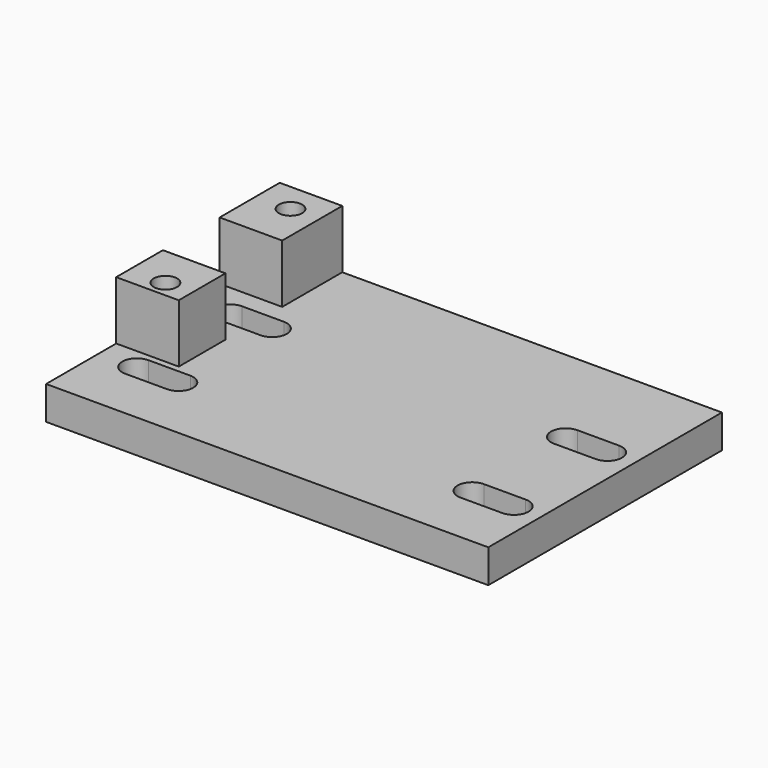
from build123d import *

# Parameters (mm, degrees)
F0_W     = 53
F0_H     = 35
F1_DEPTH = 4
F2_R     = 1.4
F3_DEPTH = 25
F4_W     = 7.5
F4_H     = 6.995946
F4_R     = 1.4
F4_H_2   = 9
F5_DEPTH = 7


with BuildPart() as f1:
    # F0 (on Top) → F1 (new body)
    with BuildSketch(Plane.XY):
        with Locations((26.5, 17.5)):
            Rectangle(F0_W, F0_H)
        with BuildLine():
            ThreePointArc((4.484879, 6.248995), (2.734879, 7.998995), (4.484879, 9.748995))
            Line((4.484879, 9.748995), (9.484879, 9.748995))
            ThreePointArc((9.484879, 9.748995), (11.234879, 7.998995), (9.484879, 6.248995))
            Line((9.484879, 6.248995), (4.484879, 6.248995))
        make_face(mode=Mode.SUBTRACT)
        with BuildLine():
            ThreePointArc((44.676833, 6.244954), (42.926833, 7.994954), (44.676833, 9.744954))
            Line((44.676833, 9.744954), (49.676833, 9.744954))
            ThreePointArc((49.676833, 9.744954), (51.426833, 7.994954), (49.676833, 6.244954))
            Line((49.676833, 6.244954), (44.676833, 6.244954))
        make_face(mode=Mode.SUBTRACT)
        with BuildLine():
            ThreePointArc((4.5, 20.25), (2.75, 22), (4.5, 23.75))
            Line((4.5, 23.75), (9.5, 23.75))
            ThreePointArc((9.5, 23.75), (11.25, 22), (9.5, 20.25))
            Line((9.5, 20.25), (4.5, 20.25))
        make_face(mode=Mode.SUBTRACT)
        with BuildLine():
            ThreePointArc((44.675402, 20.246368), (42.925402, 21.996368), (44.675402, 23.746368))
            Line((44.675402, 23.746368), (49.675402, 23.746368))
            ThreePointArc((49.675402, 23.746368), (51.425402, 21.996368), (49.675402, 20.246368))
            Line((49.675402, 20.246368), (44.675402, 20.246368))
        make_face(mode=Mode.SUBTRACT)
    extrude(amount=F1_DEPTH)

    # F2 (on face) → F3 (cut)
    with BuildSketch(Plane.XY.offset(4)):
        with Locations((4.094722, 31.5)):
            Circle(F2_R)
        with Locations((4.306453, 12.5)):
            Circle(F2_R)
    extrude(amount=-F3_DEPTH, mode=Mode.SUBTRACT)

    # F4 (on face) → F5 (join)
    with BuildSketch(Plane.XY.offset(4)):
        with Locations((3.75, 14.002027)):
            Rectangle(F4_W, F4_H)
        with Locations((4.306453, 12.5)):
            Circle(F4_R, mode=Mode.SUBTRACT)
        with Locations((3.75, 30.5)):
            Rectangle(F4_W, F4_H_2)
        with Locations((4.094722, 31.5)):
            Circle(F4_R, mode=Mode.SUBTRACT)
    extrude(amount=F5_DEPTH)


solid = f1.part
